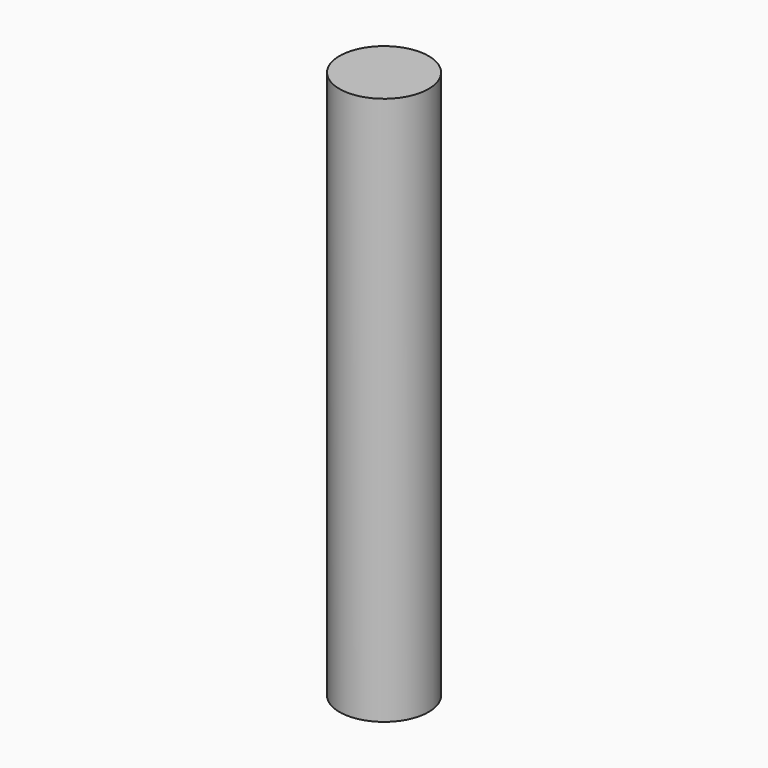
from build123d import *

# Parameters (mm, degrees)
CYLINDER_R     = 1.2192
CYLINDER_DEPTH = 15


with BuildPart() as part:
    # Cylinder → Cylinder (new body)
    with BuildSketch(Plane.XY.offset(-2.5)):
        Circle(CYLINDER_R)
    extrude(amount=CYLINDER_DEPTH)


solid = part.part
